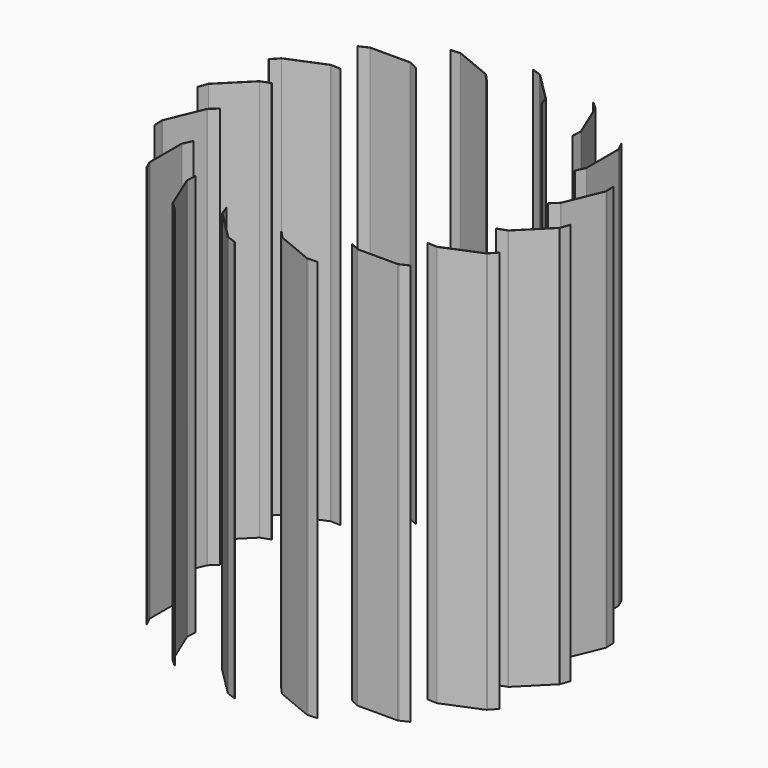
from build123d import *

# Parameters (mm, degrees)
F1_DEPTH = 2000
F3_COUNT = 16


with BuildPart() as f1:
    # F0 (on Top) → F1 (new body)
    with BuildSketch(Plane.XY):
        with BuildLine():
            ThreePointArc((-912.9512819704, 47.1105175552), (-913.0445288847, 46.908532985), (-913.1264020633, 46.701676667))
            Line((-913.1264020633, 46.701676667), (-914.4416831114, 43.0879716872))
            Line((-914.4416831114, 43.0879716872), (-929.9999371087, 0.3420201433))
            Line((-929.9999371087, 0.3420201433), (-928.1205518671, -0.3420201433))
            Line((-928.1205518671, -0.3420201433), (-911.2470168217, 46.0176363803))
            ThreePointArc((-911.2470168217, 46.0176363803), (-911.2115143311, 46.1082549869), (-911.1716454529, 46.1970391705))
            Line((-911.1716454529, 46.1970391705), (-911.2521305405, 46.2775242581))
            ThreePointArc((-911.2521305405, 46.2775242581), (-912.3994268892, 46.0867261754), (-912.9512819704, 47.1105175552))
        make_face()
        with BuildLine():
            ThreePointArc((-912.8466082178, 47.3076076323), (-912.9003198283, 47.2097927096), (-912.9512819704, 47.1105175552))
            ThreePointArc((-912.9512819704, 47.1105175552), (-912.3994268892, 46.0867261754), (-911.2521305405, 46.2775242581))
            Line((-911.2521305405, 46.2775242581), (-911.9592373216, 46.9846310393))
            Line((-911.9592373216, 46.9846310393), (-912.8466082178, 47.3076076323))
        make_face()
        with BuildLine():
            ThreePointArc((-912.8989299424, 47.3266511826), (-912.9311327151, 47.2200441743), (-912.9512819704, 47.1105175552))
            ThreePointArc((-912.9512819704, 47.1105175552), (-912.9003198283, 47.2097927096), (-912.8466082178, 47.3076076323))
            Line((-912.8466082178, 47.3076076323), (-912.8989299424, 47.3266511826))
        make_face()
        with BuildLine():
            ThreePointArc((-912.4925854364, 47.830526889), (-912.7376555473, 47.6123770596), (-912.8989299424, 47.3266511826))
            Line((-912.8989299424, 47.3266511826), (-912.8466082178, 47.3076076323))
            ThreePointArc((-912.8466082178, 47.3076076323), (-912.6799322352, 47.5760644593), (-912.4925854364, 47.830526889))
        make_face()
        with BuildLine():
            ThreePointArc((-911.0195447009, 46.642610896), (-911.1158458758, 46.4473314309), (-911.2521305405, 46.2775242581))
            Line((-911.2521305405, 46.2775242581), (-911.1716454529, 46.1970391705))
            ThreePointArc((-911.1716454529, 46.1970391705), (-911.0544144718, 46.4081953104), (-910.9125859715, 46.6036811022))
            Line((-910.9125859715, 46.6036811022), (-911.0195447009, 46.642610896))
        make_face()
        with BuildLine():
            ThreePointArc((-912.4925854364, 47.830526889), (-912.6799322352, 47.5760644593), (-912.8466082178, 47.3076076323))
            Line((-912.8466082178, 47.3076076323), (-911.9592373216, 46.9846310393))
            Line((-911.9592373216, 46.9846310393), (-911.0195447009, 46.642610896))
            ThreePointArc((-911.0195447009, 46.642610896), (-910.9744295686, 46.8109828616), (-910.9592373216, 46.9846310393))
            ThreePointArc((-910.9592373216, 46.9846310393), (-911.4761990803, 47.8602302954), (-912.4925854364, 47.830526889))
        make_face()
        with BuildLine():
            ThreePointArc((-912.1960587049, 48.1620232184), (-912.3489330963, 48.0003996616), (-912.4925854364, 47.830526889))
            ThreePointArc((-912.4925854364, 47.830526889), (-911.4761990803, 47.8602302954), (-910.9592373216, 46.9846310393))
            ThreePointArc((-910.9592373216, 46.9846310393), (-910.9744295686, 46.8109828616), (-911.0195447009, 46.642610896))
            Line((-911.0195447009, 46.642610896), (-910.9125859715, 46.6036811022))
            ThreePointArc((-910.9125859715, 46.6036811022), (-910.8489694905, 46.6773363943), (-910.7818451425, 46.747809656))
            Line((-910.7818451425, 46.747809656), (-840.5414524218, 116.9882023768))
            Line((-840.5414524218, 116.9882023768), (-770.3010597011, 187.2285950975))
            ThreePointArc((-770.3010597011, 187.2285950975), (-769.9614453554, 187.5011644267), (-769.5708864254, 187.6937667767))
            Line((-769.5708864254, 187.6937667767), (-723.2112299017, 204.5673018221))
            Line((-723.2112299017, 204.5673018221), (-723.8952701884, 206.4466870637))
            Line((-723.8952701884, 206.4466870637), (-770.254926712, 189.5731520183))
            ThreePointArc((-770.254926712, 189.5731520183), (-771.0360445721, 189.1879473184), (-771.7152732634, 188.6428086599))
            Line((-771.7152732634, 188.6428086599), (-841.9556659842, 118.4024159391))
            Line((-841.9556659842, 118.4024159391), (-912.1960587049, 48.1620232184))
        make_face()
    extrude(amount=F1_DEPTH)


with BuildPart() as f3_1:
    # F3: instance of F1
    add(f1.part.rotate(Axis((0, 0, 502.6645064354), (0, 0, 1)), 1 * 360 / F3_COUNT))


with BuildPart() as f3_2:
    # F3: instance of F1
    add(f1.part.rotate(Axis((0, 0, 502.6645064354), (0, 0, 1)), 2 * 360 / F3_COUNT))


with BuildPart() as f3_3:
    # F3: instance of F1
    add(f1.part.rotate(Axis((0, 0, 502.6645064354), (0, 0, 1)), 3 * 360 / F3_COUNT))


with BuildPart() as f3_4:
    # F3: instance of F1
    add(f1.part.rotate(Axis((0, 0, 502.6645064354), (0, 0, 1)), 4 * 360 / F3_COUNT))


with BuildPart() as f3_5:
    # F3: instance of F1
    add(f1.part.rotate(Axis((0, 0, 502.6645064354), (0, 0, 1)), 5 * 360 / F3_COUNT))


with BuildPart() as f3_6:
    # F3: instance of F1
    add(f1.part.rotate(Axis((0, 0, 502.6645064354), (0, 0, 1)), 6 * 360 / F3_COUNT))


with BuildPart() as f3_7:
    # F3: instance of F1
    add(f1.part.rotate(Axis((0, 0, 502.6645064354), (0, 0, 1)), 7 * 360 / F3_COUNT))


with BuildPart() as f3_8:
    # F3: instance of F1
    add(f1.part.rotate(Axis((0, 0, 502.6645064354), (0, 0, 1)), 8 * 360 / F3_COUNT))


with BuildPart() as f3_9:
    # F3: instance of F1
    add(f1.part.rotate(Axis((0, 0, 502.6645064354), (0, 0, 1)), 9 * 360 / F3_COUNT))


with BuildPart() as f3_10:
    # F3: instance of F1
    add(f1.part.rotate(Axis((0, 0, 502.6645064354), (0, 0, 1)), 10 * 360 / F3_COUNT))


with BuildPart() as f3_11:
    # F3: instance of F1
    add(f1.part.rotate(Axis((0, 0, 502.6645064354), (0, 0, 1)), 11 * 360 / F3_COUNT))


with BuildPart() as f3_12:
    # F3: instance of F1
    add(f1.part.rotate(Axis((0, 0, 502.6645064354), (0, 0, 1)), 12 * 360 / F3_COUNT))


with BuildPart() as f3_13:
    # F3: instance of F1
    add(f1.part.rotate(Axis((0, 0, 502.6645064354), (0, 0, 1)), 13 * 360 / F3_COUNT))


with BuildPart() as f3_14:
    # F3: instance of F1
    add(f1.part.rotate(Axis((0, 0, 502.6645064354), (0, 0, 1)), 14 * 360 / F3_COUNT))


with BuildPart() as f3_15:
    # F3: instance of F1
    add(f1.part.rotate(Axis((0, 0, 502.6645064354), (0, 0, 1)), 15 * 360 / F3_COUNT))


solid = Compound([f1.part, f3_1.part, f3_2.part, f3_3.part, f3_4.part, f3_5.part, f3_6.part, f3_7.part, f3_8.part, f3_9.part, f3_10.part, f3_11.part, f3_12.part, f3_13.part, f3_14.part, f3_15.part])
